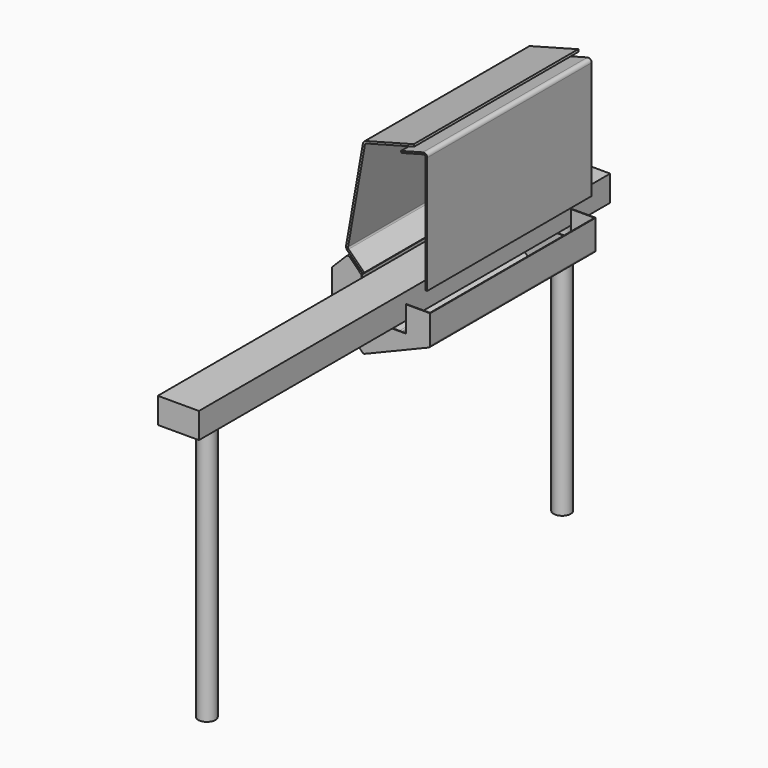
from build123d import *

# Parameters (mm, degrees)
F1_DEPTH  = 600
F3_DEPTH  = 2
F5_DEPTH  = 2
F7_DEPTH  = 600
F8_W      = 120
F8_H      = 75
F9_DEPTH  = 750
F12_DEPTH = 300
F13_R     = 25
F14_DEPTH = 770


with BuildPart() as f1:
    # F0 (on Front) → F1 (new body)
    with BuildSketch(Plane.XZ):
        with BuildLine():
            ThreePointArc((1.4644660941, -1.4644660941), (0.3806023374, 0.15765065), (0, 2.0710678119))
            Line((0, 2.0710678119), (0, 97.9289321881))
            ThreePointArc((0, 97.9289321881), (0.3806023374, 99.84234935), (1.4644660941, 101.4644660941))
            Line((1.4644660941, 101.4644660941), (41.4644660941, 141.4644660941))
            ThreePointArc((41.4644660941, 141.4644660941), (45, 142.9289321881), (48.5355339059, 141.4644660941))
            Line((48.5355339059, 141.4644660941), (82.3303307434, 107.6696692566))
            Line((82.3303307434, 107.6696692566), (83.7445443058, 109.0838828189))
            Line((83.7445443058, 109.0838828189), (49.9497474683, 142.8786796564))
            ThreePointArc((49.9497474683, 142.8786796564), (45, 144.9289321881), (40.0502525317, 142.8786796564))
            Line((40.0502525317, 142.8786796564), (0.0502525317, 102.8786796564))
            ThreePointArc((0.0502525317, 102.8786796564), (-1.4671567276, 100.6077162147), (-2, 97.9289321881))
            Line((-2, 97.9289321881), (-2, 2.0710678119))
            ThreePointArc((-2, 2.0710678119), (-1.4671567276, -0.6077162147), (0.0502525317, -2.8786796564))
            Line((0.0502525317, -2.8786796564), (86.4083997077, -89.2368268324))
            ThreePointArc((86.4083997077, -89.2368268324), (89.9852068491, -91.1511186165), (94.0231555726, -90.7599249706))
            Line((94.0231555726, -90.7599249706), (279.99533914, -14.1912161103))
            ThreePointArc((279.99533914, -14.1912161103), (283.1464746024, -11.6135560721), (284.3303307434, -7.7183705037))
            Line((284.3303307434, -7.7183705037), (284.3303307434, 75.1631110907))
            Line((284.3303307434, 75.1631110907), (282.3303307434, 75.1631110907))
            Line((282.3303307434, 75.1631110907), (282.3303307434, -7.7183705037))
            ThreePointArc((282.3303307434, -7.7183705037), (281.4847192141, -10.5006459097), (279.2339081696, -12.3418316513))
            Line((279.2339081696, -12.3418316513), (93.2617246021, -88.9105405116))
            ThreePointArc((93.2617246021, -88.9105405116), (90.3774755139, -89.1899645444), (87.82261327, -87.82261327))
            Line((87.82261327, -87.82261327), (1.4644660941, -1.4644660941))
        make_face()
    extrude(amount=F1_DEPTH)

    # F2 (on face) → F3 (join)
    with BuildSketch(Plane.XZ.offset(600)):
        with BuildLine():
            Line((83.7445443058, 109.0838828189), (49.9497474683, 142.8786796564))
            ThreePointArc((49.9497474683, 142.8786796564), (45, 144.9289321881), (40.0502525317, 142.8786796564))
            Line((40.0502525317, 142.8786796564), (0.0502525317, 102.8786796564))
            ThreePointArc((0.0502525317, 102.8786796564), (-1.4671567276, 100.6077162147), (-2, 97.9289321881))
            Line((-2, 97.9289321881), (-2, 2.0710678119))
            ThreePointArc((-2, 2.0710678119), (-1.4671567276, -0.6077162147), (0.0502525317, -2.8786796564))
            Line((0.0502525317, -2.8786796564), (86.4083997077, -89.2368268324))
            ThreePointArc((86.4083997077, -89.2368268324), (89.9852068491, -91.1511186165), (94.0231555726, -90.7599249706))
            Line((94.0231555726, -90.7599249706), (279.99533914, -14.1912161103))
            ThreePointArc((279.99533914, -14.1912161103), (283.1464746024, -11.6135560721), (284.3303307434, -7.7183705037))
            Line((284.3303307434, -7.7183705037), (284.3303307434, 75.1631110907))
            Line((284.3303307434, 75.1631110907), (213.7445443058, 75.1631110907))
            Line((213.7445443058, 75.1631110907), (213.7445443058, 0))
            Line((213.7445443058, 0), (83.7445443058, 0))
            Line((83.7445443058, 0), (83.7445443058, 109.0838828189))
        make_face()
    extrude(amount=F3_DEPTH)

    # F4 (on face) → F5 (join)
    with BuildSketch(Plane(origin=(0, 0, 0), x_dir=(-1, 0, 0), z_dir=(0, 1, 0))):
        with BuildLine():
            Line((-213.7445443058, 75.1631110907), (-284.3303307434, 75.1631110907))
            Line((-284.3303307434, 75.1631110907), (-284.3303307434, -7.7183705037))
            ThreePointArc((-284.3303307434, -7.7183705037), (-283.1464746024, -11.6135560721), (-279.99533914, -14.1912161103))
            Line((-279.99533914, -14.1912161103), (-94.0231555726, -90.7599249706))
            ThreePointArc((-94.0231555726, -90.7599249706), (-89.9852068491, -91.1511186165), (-86.4083997077, -89.2368268324))
            Line((-86.4083997077, -89.2368268324), (-0.0502525317, -2.8786796564))
            ThreePointArc((-0.0502525317, -2.8786796564), (1.4671567276, -0.6077162147), (2, 2.0710678119))
            Line((2, 2.0710678119), (2, 97.9289321881))
            ThreePointArc((2, 97.9289321881), (1.4671567276, 100.6077162147), (-0.0502525317, 102.8786796564))
            Line((-0.0502525317, 102.8786796564), (-40.0502525317, 142.8786796564))
            ThreePointArc((-40.0502525317, 142.8786796564), (-45, 144.9289321881), (-49.9497474683, 142.8786796564))
            Line((-49.9497474683, 142.8786796564), (-83.7445443058, 109.0838828189))
            Line((-83.7445443058, 109.0838828189), (-83.7445443058, 0))
            Line((-83.7445443058, 0), (-213.7445443058, 0))
            Line((-213.7445443058, 0), (-213.7445443058, 75.1631110907))
        make_face()
    extrude(amount=F5_DEPTH)


with BuildPart() as f7:
    # F6 (on face) → F7 (new body)
    with BuildSketch(Plane.XZ.offset(602)):
        with BuildLine():
            Line((87.8490793277, 112.9453565157), (92.0917200148, 117.1879972028))
            Line((92.0917200148, 117.1879972028), (46.5835144764, 162.6962027412))
            ThreePointArc((46.5835144764, 162.6962027412), (45.103853459, 165.1346086313), (44.9173086454, 167.9807324944))
            Line((44.9173086454, 167.9807324944), (93.9811580473, 446.2356496077))
            ThreePointArc((93.9811580473, 446.2356496077), (95.4663405445, 449.2473017874), (98.3370902948, 450.9893154994))
            Line((98.3370902948, 450.9893154994), (238.1879532962, 488.4622413014))
            Line((238.1879532962, 488.4622413014), (236.6350390256, 494.2577962592))
            Line((236.6350390256, 494.2577962592), (96.7841760241, 456.7848704571))
            ThreePointArc((96.7841760241, 456.7848704571), (91.0426765237, 453.300843033), (88.0723115292, 447.2775386737))
            Line((88.0723115292, 447.2775386737), (39.0084621274, 169.0226215604))
            ThreePointArc((39.0084621274, 169.0226215604), (39.3815517545, 163.3303738343), (42.3408737893, 158.4535620541))
            Line((42.3408737893, 158.4535620541), (87.8490793277, 112.9453565157))
        make_face()
    extrude(amount=-F7_DEPTH)


with BuildPart() as f9:
    # F8 (on face) → F9 (new body, symmetric)
    with BuildSketch(Plane.XZ.offset(602)):
        with Locations((149.6933400631, 67.5)):
            Rectangle(F8_W, F8_H)
    extrude(amount=F9_DEPTH, both=True)

    # F13 (on face) → F14 (join)
    with BuildSketch(Plane(origin=(0, 0, 30), x_dir=(1, 0, 0), z_dir=(0, 0, -1))):
        with Locations((152.6777621258, 1252)):
            Circle(F13_R)
        with Locations((149.6933400631, -48)):
            Circle(F13_R)
    extrude(amount=F14_DEPTH)


with BuildPart() as f12:
    # F11 (on mid) → F12 (new body, symmetric)
    with BuildSketch(Plane.XZ.offset(300)):
        with BuildLine():
            Line((261.4689141435, 480.4728531501), (197.588081, 463.3560354974))
            Line((197.588081, 463.3560354974), (198.8821762255, 458.526406366))
            Line((198.8821762255, 458.526406366), (262.763009369, 475.6432240186))
            ThreePointArc((262.763009369, 475.6432240186), (267.1009117396, 474.7803615886), (269.0571045946, 470.8135948872))
            Line((269.0571045946, 470.8135948872), (269.0571045946, 128.4116242641))
            Line((269.0571045946, 128.4116242641), (274.0571045946, 128.4116242641))
            Line((274.0571045946, 128.4116242641), (274.0571045946, 470.8135948872))
            ThreePointArc((274.0571045946, 470.8135948872), (270.1447188846, 478.7471282901), (261.4689141435, 480.4728531501))
        make_face()
    extrude(amount=F12_DEPTH, both=True)


solid = Compound([f1.part, f7.part, f9.part, f12.part])
